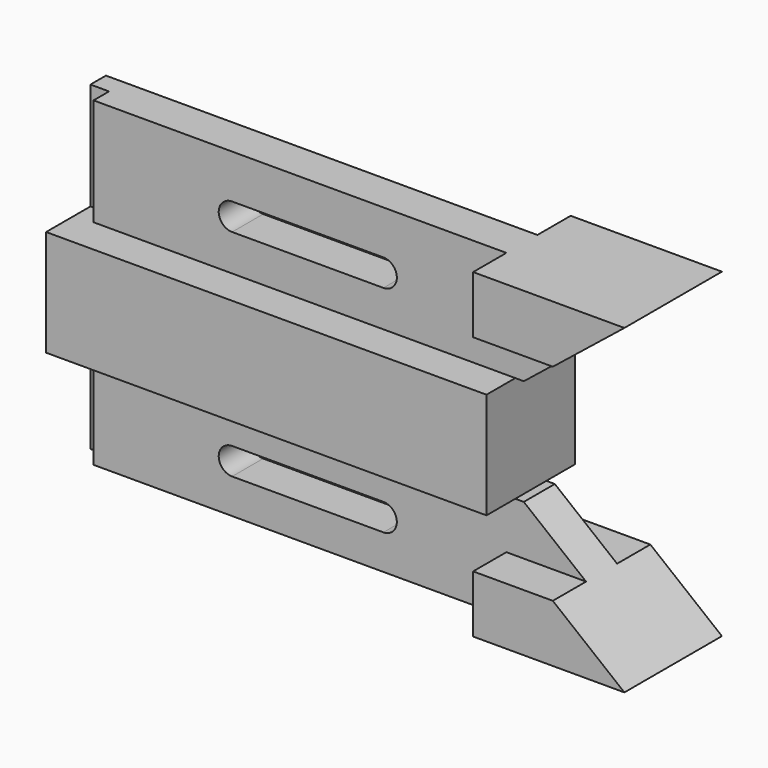
from build123d import *

# Parameters (mm, degrees)
F1_DEPTH = 12.7
F0_W     = 4.2696557939
F0_H     = 24.5932303369
F2_DEPTH = 4.445
F3_DEPTH = 4.445
F4_DEPTH = 13.97


with BuildPart() as f1:
    # F0 (on Front) → F1 (new body, symmetric)
    with BuildSketch(Plane.XZ):
        Polygon((-60.8683489263, 37.8787778318), (-65.1380047202, 37.8787778318), (-65.1380047202, 25.7041221485), (35.7967093587, 25.7041221485), (35.7967093587, 37.8787778318), align=None)
        Polygon((35.7967093587, 25.7041221485), (-65.1380047202, 25.7041221485), (-65.1380047202, 13.5294664651), (-60.8683489263, 13.5294664651), (35.7967093587, 13.5294664651), align=None)
    extrude(amount=F1_DEPTH, both=True)

    # F0 (on Front) → F2 (join)
    with BuildSketch(Plane.XZ):
        with Locations((-63.0031768233, 50.1753930002)):
            Rectangle(F0_W, F0_H)
        with Locations((-63.0031768233, 1.2328512967)):
            Rectangle(F0_W, F0_H)
    extrude(amount=-F2_DEPTH)

    # F0 (on Front) → F3 (join, symmetric)
    with BuildSketch(Plane.XZ):
        Polygon((33.7472744286, 62.4720081687), (-60.8683489263, 62.4720081687), (-60.8683489263, 37.8787778318), (35.7967093587, 37.8787778318), (37.7412438393, 37.8787778318), (52.0139420338, 49.3214614689), (33.7472744286, 49.3214614689), align=None)
        with BuildLine():
            ThreePointArc((5.5675311014, 52.4003553908), (8.6464250233, 49.3214614689), (5.5675311014, 46.2425675471))
            Line((5.5675311014, 46.2425675471), (-29.1020926088, 46.2425675471))
            ThreePointArc((-29.1020926088, 46.2425675471), (-32.1809865307, 49.3214614689), (-29.1020926088, 52.4003553908))
            Line((-29.1020926088, 52.4003553908), (5.5675311014, 52.4003553908))
        make_face(mode=Mode.SUBTRACT)
        Polygon((37.7412438393, 13.5294664651), (35.7967093587, 13.5294664651), (-60.8683489263, 13.5294664651), (-60.8683489263, -11.0637638718), (33.7472744286, -11.0637638718), (33.7472744286, 2.086782828), (52.0139420338, 2.086782828), align=None)
        with BuildLine():
            ThreePointArc((-29.1020926088, -3.0788939219), (-32.1809865307, 0), (-29.1020926088, 3.0788939219))
            Line((-29.1020926088, 3.0788939219), (5.5675311014, 3.0788939219))
            ThreePointArc((5.5675311014, 3.0788939219), (8.6464250233, 0), (5.5675311014, -3.0788939219))
            Line((5.5675311014, -3.0788939219), (-29.1020926088, -3.0788939219))
        make_face(mode=Mode.SUBTRACT)
    extrude(amount=F3_DEPTH, both=True)

    # F0 (on Front) → F4 (join, symmetric)
    with BuildSketch(Plane.XZ):
        Polygon((68.4168934822, 62.4720081687), (33.7472744286, 62.4720081687), (33.7472744286, 49.3214614689), (52.0139420338, 49.3214614689), align=None)
        Polygon((68.4168934822, -11.0637638718), (52.0139420338, 2.086782828), (33.7472744286, 2.086782828), (33.7472744286, -11.0637638718), align=None)
    extrude(amount=F4_DEPTH, both=True)


solid = f1.part
